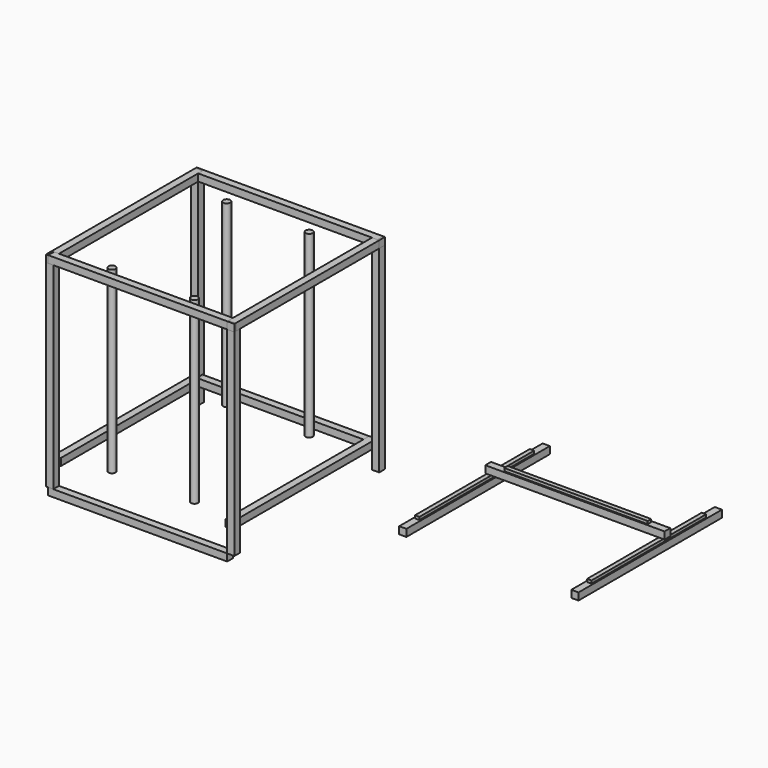
from build123d import *

# Parameters (mm, degrees)
CYLINDER_R        = 10
CYLINDER_DEPTH    = 500
CYLINDER001_R     = 10
CYLINDER001_DEPTH = 500
CYLINDER002_R     = 10
CYLINDER002_DEPTH = 500
CYLINDER003_R     = 10
CYLINDER003_DEPTH = 500
BOX_W             = 20
BOX_H             = 20
BOX_DEPTH         = 550
BOX001_W          = 500
BOX001_H          = 20
BOX001_DEPTH      = 20
BOX002_W          = 500
BOX002_H          = 20
BOX002_DEPTH      = 20
BOX003_W          = 20
BOX003_H          = 500
BOX003_DEPTH      = 20
BOX004_W          = 20
BOX004_H          = 500
BOX004_DEPTH      = 20
BOX005_W          = 20
BOX005_H          = 20
BOX005_DEPTH      = 550
BOX006_W          = 20
BOX006_H          = 20
BOX006_DEPTH      = 550
BOX007_W          = 20
BOX007_H          = 20
BOX007_DEPTH      = 550
BOX008_W          = 500
BOX008_H          = 20
BOX008_DEPTH      = 20
BOX009_W          = 500
BOX009_H          = 20
BOX009_DEPTH      = 20
BOX010_W          = 20
BOX010_H          = 500
BOX010_DEPTH      = 20
BOX011_W          = 20
BOX011_H          = 5
BOX011_DEPTH      = 20
BOX012_W          = 20
BOX012_H          = 500
BOX012_DEPTH      = 20
BOX013_W          = 20
BOX013_H          = 5
BOX013_DEPTH      = 20
BOX014_W          = 5
BOX014_H          = 20
BOX014_DEPTH      = 20
BOX015_W          = 5
BOX015_H          = 20
BOX015_DEPTH      = 20
BOX016_W          = 20
BOX016_H          = 500
BOX016_DEPTH      = 20
BOX017_W          = 20
BOX017_H          = 500
BOX017_DEPTH      = 20
BOX018_W          = 500
BOX018_H          = 20
BOX018_DEPTH      = 20
BOX019_W          = 400
BOX019_H          = 12.2
BOX019_DEPTH      = 7.8
BOX020_W          = 12.2
BOX020_H          = 400
BOX020_DEPTH      = 7.8
BOX021_W          = 12.2
BOX021_H          = 400
BOX021_DEPTH      = 7.8
BOX022_W          = 20
BOX022_H          = 500
BOX022_DEPTH      = 20


with BuildPart() as obj1:
    # Cylinder → Cylinder (new body)
    with BuildSketch(Plane(origin=(230, 0, 0), x_dir=(1, 0, 0), z_dir=(0, 0, 1))):
        Circle(CYLINDER_R)
    extrude(amount=CYLINDER_DEPTH)


with BuildPart() as obj2:
    # Cylinder001 → Cylinder001 (new body)
    with BuildSketch(Plane(origin=(230, 400, 0), x_dir=(1, 0, 0), z_dir=(0, 0, 1))):
        Circle(CYLINDER001_R)
    extrude(amount=CYLINDER001_DEPTH)


with BuildPart() as obj3:
    # Cylinder002 → Cylinder002 (new body)
    with BuildSketch(Plane(origin=(0, 400, 0), x_dir=(1, 0, 0), z_dir=(0, 0, 1))):
        Circle(CYLINDER002_R)
    extrude(amount=CYLINDER002_DEPTH)


with BuildPart() as obj4:
    # Cylinder003 → Cylinder003 (new body)
    with BuildSketch(Plane.XY):
        Circle(CYLINDER003_R)
    extrude(amount=CYLINDER003_DEPTH)


with BuildPart() as obj5:
    # Box → Box (new body)
    with BuildSketch(Plane(origin=(-127, -71, -50), x_dir=(1, 0, 0), z_dir=(0, 0, 1))):
        with Locations((10, 10)):
            Rectangle(BOX_W, BOX_H)
    extrude(amount=BOX_DEPTH)


with BuildPart() as vslot_base_inferior_frontal:
    # Box001 → Box001 (new body)
    with BuildSketch(Plane(origin=(-122, -71, -70), x_dir=(1, 0, 0), z_dir=(0, 0, 1))):
        with Locations((250, 10)):
            Rectangle(BOX001_W, BOX001_H)
    extrude(amount=BOX001_DEPTH)


with BuildPart() as obj6:
    # Box002 → Box002 (new body)
    with BuildSketch(Plane(origin=(-122, 429, 0), x_dir=(1, 0, 0), z_dir=(0, 0, 1))):
        with Locations((250, 10)):
            Rectangle(BOX002_W, BOX002_H)
    extrude(amount=BOX002_DEPTH)


with BuildPart() as obj7:
    # Box003 → Box003 (new body)
    with BuildSketch(Plane(origin=(-122, -51, 0), x_dir=(1, 0, 0), z_dir=(0, 0, 1))):
        with Locations((10, 250)):
            Rectangle(BOX003_W, BOX003_H)
    extrude(amount=BOX003_DEPTH)


with BuildPart() as obj8:
    # Box004 → Box004 (new body)
    with BuildSketch(Plane(origin=(358, -51, 0), x_dir=(1, 0, 0), z_dir=(0, 0, 1))):
        with Locations((10, 250)):
            Rectangle(BOX004_W, BOX004_H)
    extrude(amount=BOX004_DEPTH)


with BuildPart() as obj9:
    # Box005 → Box005 (new body)
    with BuildSketch(Plane(origin=(378, -71, -50), x_dir=(1, 0, 0), z_dir=(0, 0, 1))):
        with Locations((10, 10)):
            Rectangle(BOX005_W, BOX005_H)
    extrude(amount=BOX005_DEPTH)


with BuildPart() as obj10:
    # Box006 → Box006 (new body)
    with BuildSketch(Plane(origin=(378, 434, -50), x_dir=(1, 0, 0), z_dir=(0, 0, 1))):
        with Locations((10, 10)):
            Rectangle(BOX006_W, BOX006_H)
    extrude(amount=BOX006_DEPTH)


with BuildPart() as obj11:
    # Box007 → Box007 (new body)
    with BuildSketch(Plane(origin=(-127, 434, -50), x_dir=(1, 0, 0), z_dir=(0, 0, 1))):
        with Locations((10, 10)):
            Rectangle(BOX007_W, BOX007_H)
    extrude(amount=BOX007_DEPTH)


with BuildPart() as vslot_base_superior_frontal:
    # Box008 → Box008 (new body)
    with BuildSketch(Plane(origin=(-121, -71, 500), x_dir=(1, 0, 0), z_dir=(0, 0, 1))):
        with Locations((250, 10)):
            Rectangle(BOX008_W, BOX008_H)
    extrude(amount=BOX008_DEPTH)


with BuildPart() as obj12:
    # Box009 → Box009 (new body)
    with BuildSketch(Plane(origin=(-107, 434, 500), x_dir=(1, 0, 0), z_dir=(0, 0, 1))):
        with Locations((250, 10)):
            Rectangle(BOX009_W, BOX009_H)
    extrude(amount=BOX009_DEPTH)


with BuildPart() as obj13:
    # Box010 → Box010 (new body)
    with BuildSketch(Plane(origin=(378, -66, 500), x_dir=(1, 0, 0), z_dir=(0, 0, 1))):
        with Locations((10, 250)):
            Rectangle(BOX010_W, BOX010_H)
    extrude(amount=BOX010_DEPTH)


with BuildPart() as obj14:
    # Box011 → Box011 (new body)
    with BuildSketch(Plane(origin=(-127, 449, 500), x_dir=(1, 0, 0), z_dir=(0, 0, 1))):
        with Locations((10, 2.5)):
            Rectangle(BOX011_W, BOX011_H)
    extrude(amount=BOX011_DEPTH)


with BuildPart() as obj15:
    # Box012 → Box012 (new body)
    with BuildSketch(Plane(origin=(-127, -51, 500), x_dir=(1, 0, 0), z_dir=(0, 0, 1))):
        with Locations((10, 250)):
            Rectangle(BOX012_W, BOX012_H)
    extrude(amount=BOX012_DEPTH)


with BuildPart() as obj16:
    # Box013 → Box013 (new body)
    with BuildSketch(Plane(origin=(378, -71, 500), x_dir=(1, 0, 0), z_dir=(0, 0, 1))):
        with Locations((10, 2.5)):
            Rectangle(BOX013_W, BOX013_H)
    extrude(amount=BOX013_DEPTH)


with BuildPart() as obj17:
    # Box014 → Box014 (new body)
    with BuildSketch(Plane(origin=(393, 434, 500), x_dir=(1, 0, 0), z_dir=(0, 0, 1))):
        with Locations((2.5, 10)):
            Rectangle(BOX014_W, BOX014_H)
    extrude(amount=BOX014_DEPTH)


with BuildPart() as obj18:
    # Box015 → Box015 (new body)
    with BuildSketch(Plane(origin=(-127, -71, 500), x_dir=(1, 0, 0), z_dir=(0, 0, 1))):
        with Locations((2.5, 10)):
            Rectangle(BOX015_W, BOX015_H)
    extrude(amount=BOX015_DEPTH)


with BuildPart() as obj19:
    # Box016 → Box016 (new body)
    with BuildSketch(Plane(origin=(641, 200, -27.8), x_dir=(1, 0, 0), z_dir=(0, 0, 1))):
        with Locations((10, 250)):
            Rectangle(BOX016_W, BOX016_H)
    extrude(amount=BOX016_DEPTH)


with BuildPart() as obj20:
    # Box017 → Box017 (new body)
    with BuildSketch(Plane(origin=(1121, 200, -27.8), x_dir=(1, 0, 0), z_dir=(0, 0, 1))):
        with Locations((10, 250)):
            Rectangle(BOX017_W, BOX017_H)
    extrude(amount=BOX017_DEPTH)


with BuildPart() as vslot_x:
    # Box018 → Box018 (new body)
    with BuildSketch(Plane(origin=(641, 500, 0), x_dir=(1, 0, 0), z_dir=(0, 0, 1))):
        with Locations((250, 10)):
            Rectangle(BOX018_W, BOX018_H)
    extrude(amount=BOX018_DEPTH)


with BuildPart() as rail_x_superior:
    # Box019 → Box019 (new body)
    with BuildSketch(Plane(origin=(691, 503.8, 20), x_dir=(1, 0, 0), z_dir=(0, 0, 1))):
        with Locations((200, 6.1)):
            Rectangle(BOX019_W, BOX019_H)
    extrude(amount=BOX019_DEPTH)


with BuildPart() as obj21:
    # Box020 → Box020 (new body)
    with BuildSketch(Plane(origin=(645, 250, -7.8), x_dir=(1, 0, 0), z_dir=(0, 0, 1))):
        with Locations((6.1, 200)):
            Rectangle(BOX020_W, BOX020_H)
    extrude(amount=BOX020_DEPTH)


with BuildPart() as obj22:
    # Box021 → Box021 (new body)
    with BuildSketch(Plane(origin=(1125, 250, -7.8), x_dir=(1, 0, 0), z_dir=(0, 0, 1))):
        with Locations((6.1, 200)):
            Rectangle(BOX021_W, BOX021_H)
    extrude(amount=BOX021_DEPTH)


with BuildPart() as obj23:
    # Box022 → Box022 (new body)
    with BuildSketch(Plane(origin=(641, 200, -27.8), x_dir=(1, 0, 0), z_dir=(0, 0, 1))):
        with Locations((10, 250)):
            Rectangle(BOX022_W, BOX022_H)
    extrude(amount=BOX022_DEPTH)


solid = Compound([obj1.part, obj2.part, obj3.part, obj4.part, obj5.part, vslot_base_inferior_frontal.part, obj6.part, obj7.part, obj8.part, obj9.part, obj10.part, obj11.part, vslot_base_superior_frontal.part, obj12.part, obj13.part, obj14.part, obj15.part, obj16.part, obj17.part, obj18.part, obj19.part, obj20.part, vslot_x.part, rail_x_superior.part, obj21.part, obj22.part, obj23.part])
